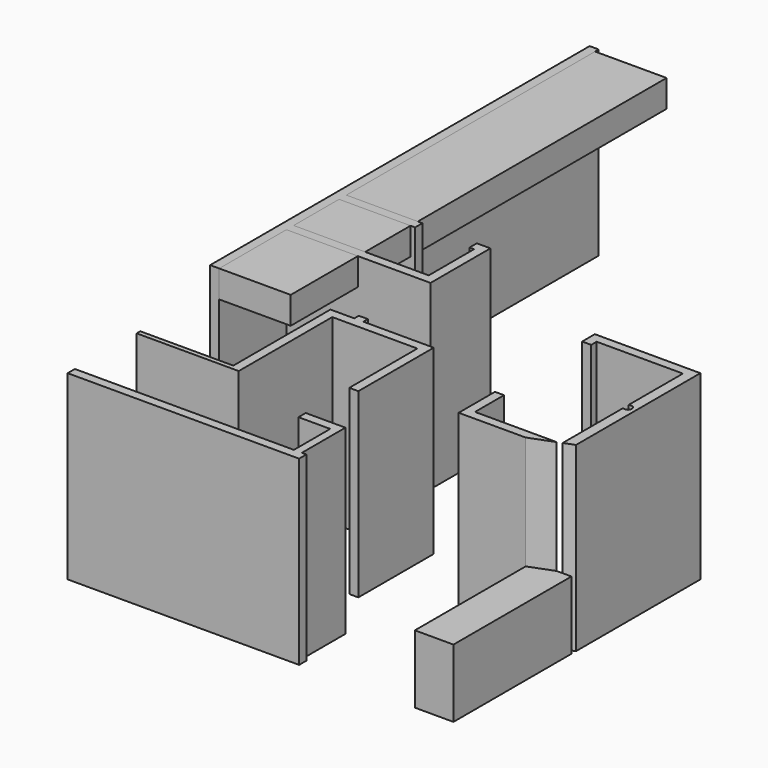
from build123d import *

# Parameters (mm, degrees)
F1_DEPTH = 2032
F0_W     = 101.6
F0_H     = 63.5
F2_W     = 800.1
F2_H     = 3479.8
F3_DEPTH = 304.8
F2_H_2   = 635
F2_H_3   = 939.8
F4_DEPTH = 762


with BuildPart() as f1:
    # F0 (on Top) → F1 (new body)
    with BuildSketch(Plane.XY):
        with BuildLine():
            Line((0, 196.8397610903), (-1181.1, 196.8397610903))
            Line((-1181.1, 196.8397610903), (-1181.1, 95.2397610903))
            Line((-1181.1, 95.2397610903), (-1181.1, 19.0397610903))
            Line((-1181.1, 19.0397610903), (-1079.5, 19.0397610903))
            Line((-1079.5, 19.0397610903), (-1079.5, 95.2397610903))
            Line((-1079.5, 95.2397610903), (-114.3, 95.2397610903))
            Line((-114.3, 95.2397610903), (-114.3, -631.3678622246))
            Line((-114.3, -631.3678622246), (-114.3, -668.3822661042))
            ThreePointArc((-114.3, -668.3822661042), (-68.3236482826, -665.4595250837), (-44.45, -704.8602389097))
            ThreePointArc((-44.45, -704.8602389097), (-68.3236482826, -744.2609527357), (-114.3, -741.3382117152))
            Line((-114.3, -741.3382117152), (-114.3, -1586.7631800862))
            Line((-114.3, -1586.7631800862), (0, -1543.0602389097))
            Line((0, -1543.0602389097), (0, 95.2397610903))
            Line((0, 95.2397610903), (0, 196.8397610903))
        make_face()
    extrude(amount=F1_DEPTH)


with BuildPart() as f1b:
    # F0 (on Top) → F1, piece 2 (new body)
    with BuildSketch(Plane.XY):
        Polygon((-431.8, -1708.1602389097), (-166.0769230769, -1606.5602389097), (-1079.5, -1606.5602389097), (-1079.5, -1403.3602389097), (-1079.5, -1200.1602389097), (-1181.1, -1200.1602389097), (-1181.1, -1403.3602389097), (-1181.1, -1708.1602389097), align=None)
    extrude(amount=F1_DEPTH)

    # F0 (on Top) → F4 (join)
    with BuildSketch(Plane.XY):
        Polygon((0, -1695.4602389097), (0, -1606.5602389097), (-114.3, -1606.5602389097), (-166.0769230769, -1606.5602389097), (-431.8, -1708.1602389097), (-431.8, -3257.5602389097), (0, -3257.5602389097), align=None)
    extrude(amount=F4_DEPTH)


with BuildPart() as f1c:
    # F0 (on Top) → F1, piece 3 (new body)
    with BuildSketch(Plane.XY):
        Polygon((-4318, -2241.5602389097), (-4318, -2292.3602389097), (-4127.5, -2292.3602389097), (-3175, -2292.3602389097), (-3175, -2241.5602389097), (-3175, -984.2602389097), (-2222.5, -984.2602389097), (-2222.5, -1936.7602389097), (-2120.9, -1936.7602389097), (-2120.9, -882.6602389097), (-2908.3, -882.6602389097), (-3009.9, -882.6602389097), (-3276.6, -882.6602389097), (-3276.6, -2241.5602389097), (-4127.5, -2241.5602389097), align=None)
        with Locations((-2959.1, -850.9102389097)):
            Rectangle(F0_W, F0_H)
    extrude(amount=F1_DEPTH)


with BuildPart() as f1d:
    # F0 (on Top) → F1, piece 4 (new body)
    with BuildSketch(Plane.XY):
        Polygon((-4127.5, -3257.5602389097), (-1727.2, -3257.5602389097), (-1727.2, -3192.6818602324), (-1727.2, -3155.9602389097), (-1778, -3155.9602389097), (-1778, -2546.3602389097), (-1866.9, -2546.3602389097), (-2038.0726083756, -2546.3602389097), (-2120.9, -2546.3602389097), (-2222.5, -2546.3602389097), (-2222.5, -2647.9602389097), (-2038.0726083756, -2647.9602389097), (-1866.9, -2647.9602389097), (-1866.9, -3155.9602389097), (-4127.5, -3155.9602389097), (-4318, -3155.9602389097), (-4318, -3257.5602389097), align=None)
    extrude(amount=F1_DEPTH)


with BuildPart() as f1e:
    # F0 (on Top) → F1, piece 5 (new body)
    with BuildSketch(Plane.XY):
        Polygon((-4622.8, 578.4776806831), (-4622.8, -882.6602389097), (-4521.2, -882.6602389097), (-4521.2, 57.1397610903), (-3276.6, 57.1397610903), (-3009.9, 57.1397610903), (-2908.3, 57.1397610903), (-2908.3, 158.7397610903), (-2908.3, 895.3397610903), (-3009.9, 895.3397610903), (-3060.7, 895.3397610903), (-3060.7, 793.7397610903), (-3009.9, 793.7397610903), (-3009.9, 158.7397610903), (-3111.5, 158.7397610903), (-4521.2, 158.7397610903), (-4521.2, 793.7397610903), (-3670.3, 793.7397610903), (-3670.3, 895.3397610903), (-4521.2, 895.3397610903), (-4521.2, 4425.9397610903), (-4622.8, 4425.9397610903), align=None)
    extrude(amount=F1_DEPTH)


with BuildPart() as f3:
    # F2 (on face) → F3 (new body)
    with BuildSketch(Plane.XY.offset(2032)):
        with Locations((-4121.15, 2635.2397610903)):
            Rectangle(F2_W, F2_H)
    extrude(amount=-F3_DEPTH)


with BuildPart() as f3b:
    # F2 (on face) → F3, piece 2 (new body)
    with BuildSketch(Plane.XY.offset(2032)):
        with Locations((-4121.15, 476.2397610903)):
            Rectangle(F2_W, F2_H_2)
    extrude(amount=-F3_DEPTH)


with BuildPart() as f3c:
    # F2 (on face) → F3, piece 3 (new body)
    with BuildSketch(Plane.XY.offset(2032)):
        with Locations((-4121.15, -412.7602389097)):
            Rectangle(F2_W, F2_H_3)
    extrude(amount=-F3_DEPTH)


solid = Compound([f1.part, f1b.part, f1c.part, f1d.part, f1e.part, f3.part, f3b.part, f3c.part])
